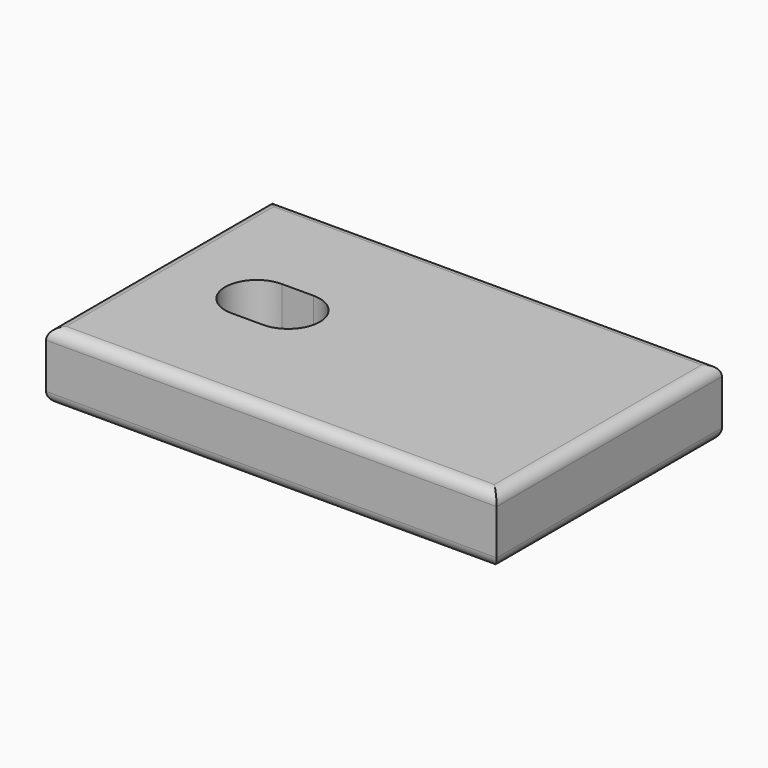
from build123d import *

# Parameters (mm, degrees)
SKETCH_W     = 40
SKETCH_H     = 25
PAD_DEPTH    = 6
POCKET_DEPTH = 4
FILLET_R     = 1
FILLET001_R  = 1


with BuildPart() as part:
    # Sketch → Pad (new body)
    with BuildSketch(Plane.XY):
        Rectangle(SKETCH_W, SKETCH_H)
    extrude(amount=PAD_DEPTH)

    # Sketch001 → Pocket (cut)
    with BuildSketch(Plane.XY.offset(6)):
        with BuildLine():
            ThreePointArc((-11.3, 2.8), (-14.1, 0), (-11.3, -2.8))
            Line((-11.3, -2.8), (-8.5, -2.8))
            ThreePointArc((-8.5, -2.8), (-5.7, 0), (-8.5, 2.8))
            Line((-11.3, 2.8), (-8.5, 2.8))
        make_face()
    extrude(amount=-POCKET_DEPTH, mode=Mode.SUBTRACT)

    # Fillet
    fillet_edges = [part.edges().sort_by_distance(p)[0] for p in [
        (-20, 0, 0),
        (0, 12.5, 0),
        (0, -12.5, 0),
        (20, 0, 0),
    ]]
    fillet(fillet_edges, radius=FILLET_R)

    # Fillet001
    fillet001_edges = [part.edges().sort_by_distance(p)[0] for p in [
        (0, -12.5, 6),
        (-20, 0, 6),
        (0, 12.5, 6),
        (20, 0, 6),
    ]]
    fillet(fillet001_edges, radius=FILLET001_R)


solid = part.part
